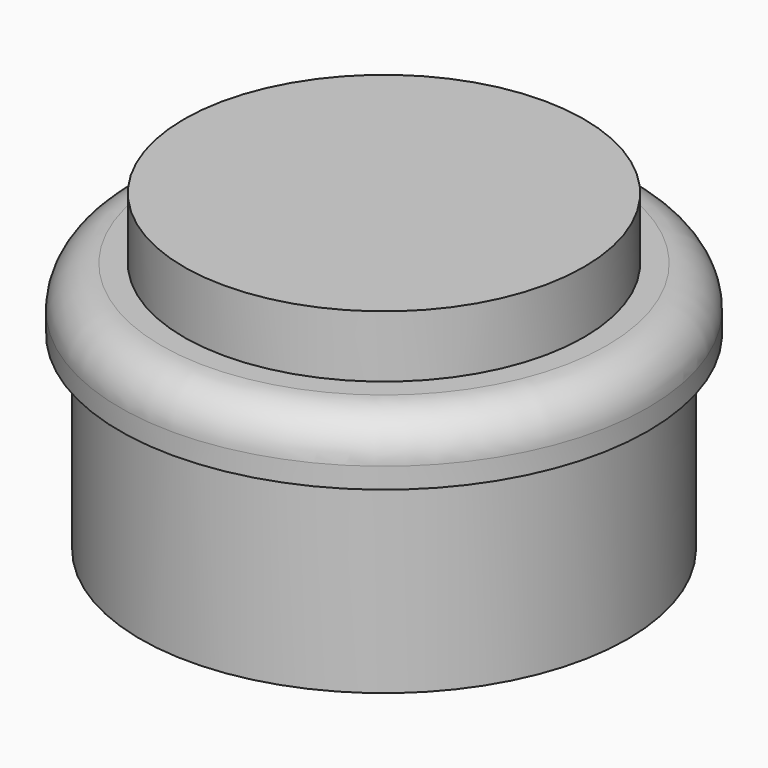
from build123d import *

# Parameters (mm, degrees)
F2_R = 2.54


with BuildPart() as f1:
    # F0 (on Front) → F1 (revolve)
    with BuildSketch(Plane.XZ):
        Polygon((12.319, 7.62), (0, 7.62), (0, -11.684), (15, -11.684), (15, 0), (16.256, 0), (16.256, 3.81), (12.319, 3.81), align=None)
    revolve(axis=Axis((0, 0, -2.032), (0, 0, -1)))

    # F2
    f2_edges = [f1.edges().sort_by_distance(p)[0] for p in [
        (-16.256, 0, 3.81),
    ]]
    fillet(f2_edges, radius=F2_R)


solid = f1.part
